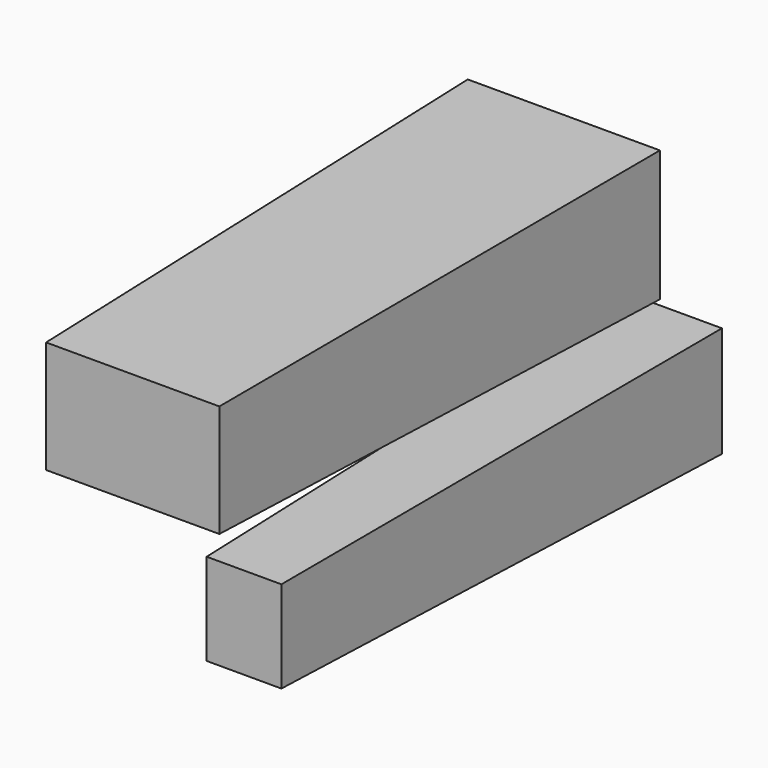
from build123d import *

# Parameters (mm, degrees)
F0_W     = 65.9290971234
F0_H     = 42.737763375
F1_DEPTH = 205.0311118364
F1_TAPER = -1
F0_W_2   = 28.4534078091
F0_H_2   = 34.9197052419


with BuildPart() as f1:
    # F0 (on Front) → F1 (new body)
    with BuildSketch(Plane.XZ):
        with Locations((-4.4601275586, 12.2504737228)):
            Rectangle(F0_W, F0_H)
    extrude(amount=-F1_DEPTH, taper=F1_TAPER)


with BuildPart() as f1b:
    # F0 (on Front) → F1, piece 2 (new body)
    with BuildSketch(Plane.XZ):
        with Locations((37.8860989586, -35.7519704849)):
            Rectangle(F0_W_2, F0_H_2)
    extrude(amount=-F1_DEPTH, taper=F1_TAPER)


solid = Compound([f1.part, f1b.part])
